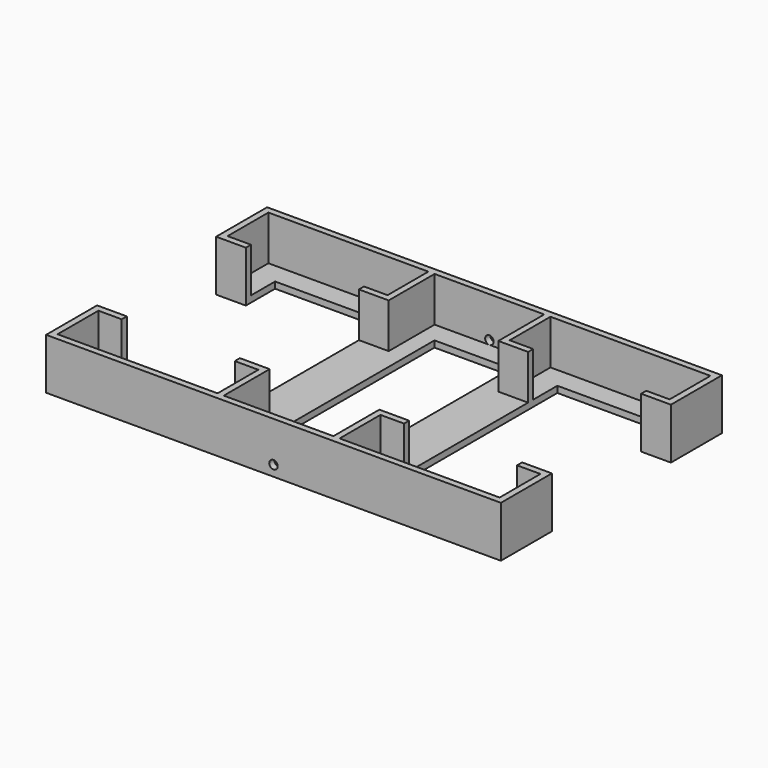
from build123d import *

# Parameters (mm, degrees)
F1_DEPTH = 12
F2_T     = -1.5
F3_R     = 1
F4_DEPTH = 70
F5_W     = 18
F5_H     = 52.2
F6_DEPTH = 25
F9_DEPTH = 10.5


with BuildPart() as f1:
    # F0 (on Top) → F1 (new body)
    with BuildSketch(Plane.XY):
        Polygon((53.5, 32.5), (0, 32.5), (-53.5, 32.5), (-53.5, 17.5), (-46.5, 17.5), (-46.5, 0), (-46.5, -17.5), (-53.5, -17.5), (-53.5, -32.5), (0, -32.5), (53.5, -32.5), (53.5, -17.5), (46.5, -17.5), (46.5, 0), (46.5, 17.5), (53.5, 17.5), align=None)
    extrude(amount=F1_DEPTH)

    # F2
    f2_openings = [f1.faces().sort_by_distance(p)[0] for p in [
        (0, 0, 12),
    ]]
    offset(amount=F2_T, openings=f2_openings)

    # F3 (on face) → F4 (cut)
    with BuildSketch(Plane.XZ.offset(32.5)):
        with Locations((0, 2.5)):
            Circle(F3_R)
    extrude(amount=-F4_DEPTH, mode=Mode.SUBTRACT)

    # F5 (on face) → F6 (cut)
    with BuildSketch(Plane(origin=(0, 0, 0), x_dir=(1, 0, 0), z_dir=(0, 0, -1))):
        Polygon((-19.9, 26.1), (-46.5, 26.1), (-46.5, 17.5), (-46.5, -17.5), (-46.5, -26.1), (-19.9, -26.1), align=None)
        Rectangle(F5_W, F5_H)
        Polygon((46.5, -17.5), (46.5, 17.5), (46.5, 26.1), (19.9, 26.1), (19.9, -26.1), (46.5, -26.1), align=None)
    extrude(amount=-F6_DEPTH, mode=Mode.SUBTRACT)

    # F8 (on face) → F9 (join)
    with BuildSketch(Plane.XY.offset(1.5)):
        Polygon((-19.9, 17.5), (-12.9, 17.5), (-12.9, 31), (-14.362971, 31), (-14.362971, 19), (-19.9, 19), align=None)
        Polygon((12.9, 31), (12.9, 17.5), (19.9, 17.5), (19.9, 19), (14.362971, 19), (14.362971, 31), align=None)
        Polygon((19.9, -17.5), (12.9, -17.5), (12.9, -31), (14.362971, -31), (14.362971, -19), (19.9, -19), align=None)
        Polygon((-19.9, -17.5), (-19.9, -19), (-14.362971, -19), (-14.362971, -31), (-12.9, -31), (-12.9, -17.5), align=None)
    extrude(amount=F9_DEPTH)


solid = f1.part
